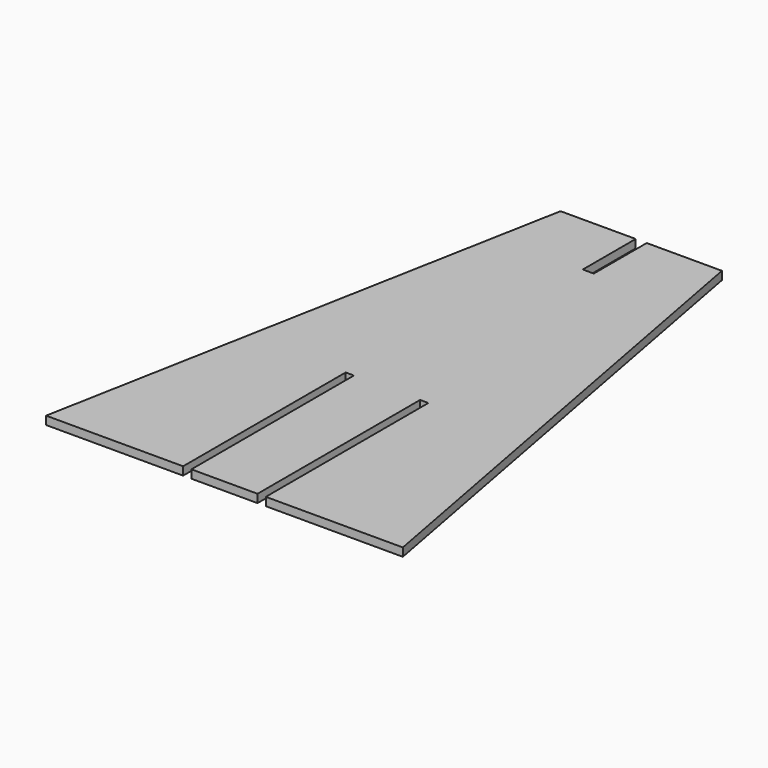
from build123d import *

# Parameters (mm, degrees)
F1_DEPTH = 3.175


with BuildPart() as f1:
    # F0 (on Top) → F1 (new body)
    with BuildSketch(Plane.XY):
        Polygon((37.5, 200), (0, 0), (52.605748, 0), (52.605748, 77.999996), (55.780748, 77.999996), (55.780748, 0), (73.4125, 0), (76.5875, 0), (81.180748, 0), (81.180748, 77.999996), (84.355748, 77.999996), (84.355748, 0), (136.961496, 0), (99.461496, 200), (76.5875, 200), (72.534124, 200), (70.592317, 200), (70.592317, 174.6), (66.369179, 174.6), (66.369179, 200), align=None)
    extrude(amount=F1_DEPTH)


solid = f1.part
